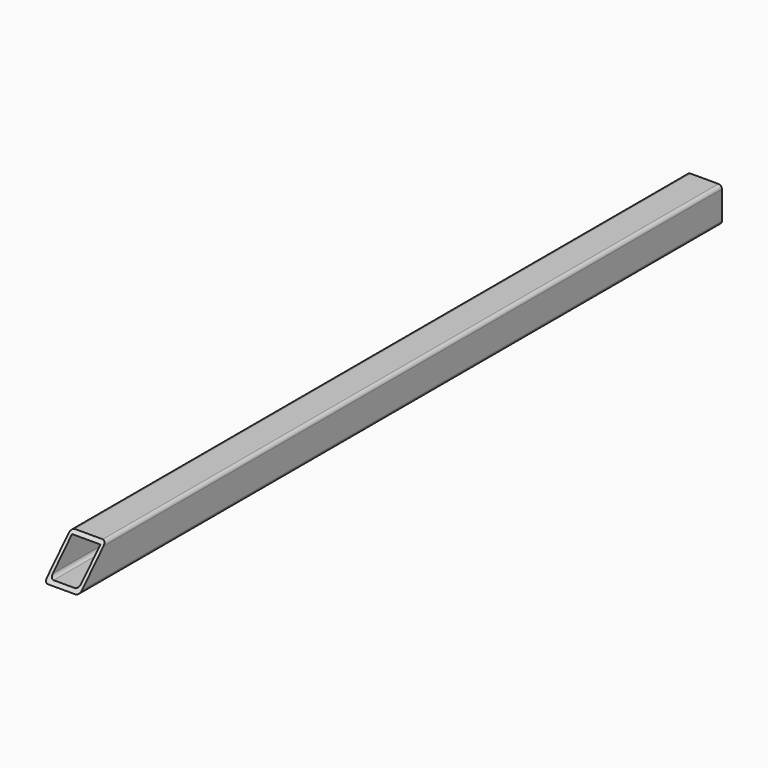
from build123d import *

# Parameters (mm, degrees)
F0_W     = 50.8
F0_H     = 50.8
F0_W_2   = 41.275
F0_H_2   = 41.275
F1_DEPTH = 584.2
F3_DEPTH = 50.8
F4_R     = 5.08


with BuildPart() as f1:
    # F0 (on Front) → F1 (new body, symmetric)
    with BuildSketch(Plane.XZ):
        Rectangle(F0_W, F0_H)
        Rectangle(F0_W_2, F0_H_2, mode=Mode.SUBTRACT)
    extrude(amount=F1_DEPTH, both=True)

    # F2 (on face) → F3 (cut)
    with BuildSketch(Plane.YZ.offset(25.4)):
        Polygon((-584.2, 25.4), (-584.2, -25.4), (-535.14301, 25.4), align=None)
    extrude(amount=-F3_DEPTH, mode=Mode.SUBTRACT)

    # F4
    f4_edges = [f1.edges().sort_by_distance(p)[0] for p in [
        (-25.4, 24.528495, 25.4),
        (25.4, 24.528495, 25.4),
        (20.6375, 2.299546, -20.6375),
        (-20.6375, 2.299546, -20.6375),
        (-25.4, 0, -25.4),
        (25.4, 0, -25.4),
    ]]
    fillet(f4_edges, radius=F4_R)


solid = f1.part
